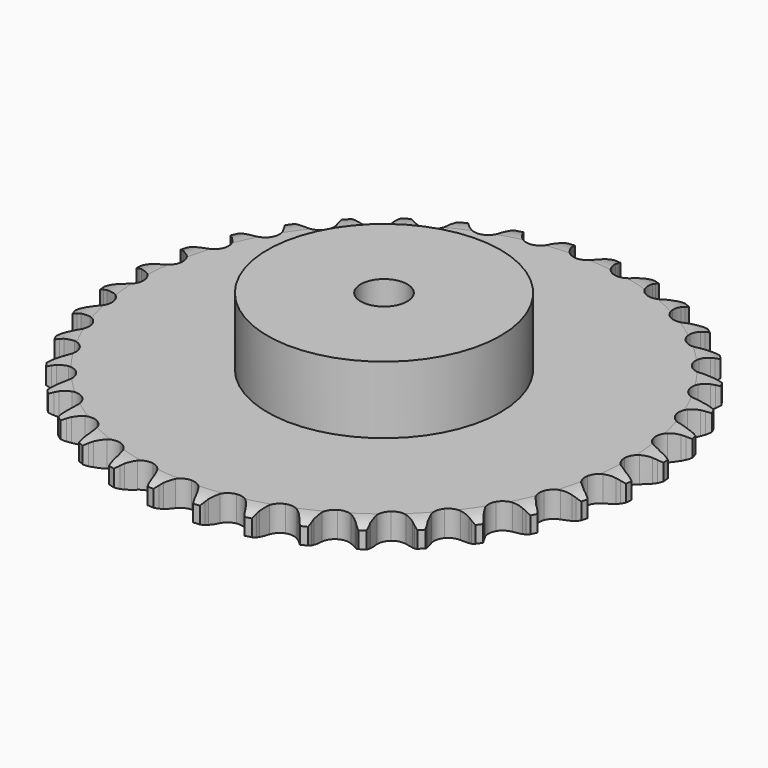
from build123d import *

# Parameters (mm, degrees)
PAD_DEPTH         = 11.1
SKETCH001_R       = 50
PAD001_DEPTH      = 40
SKETCH002_R       = 10
POCKET_DEPTH      = 0.001
POCKET_DEPTH_BACK = 40.001


with BuildPart() as part:
    # Sprocket → Pad (new body)
    with BuildSketch(Plane.XY):
        with BuildLine():
            ThreePointArc((-10.052334, 114.898699), (-8.631125, 113.189539), (-7.631331, 111.204226))
            Line((-7.631331, 111.204226), (-7.042556, 109.605897))
            ThreePointArc((-7.042556, 109.605897), (-6.111504, 107.547038), (-4.895578, 105.642496))
            ThreePointArc((-4.895578, 105.642496), (-2.739145, 103.833033), (0, 103.183844))
            ThreePointArc((0, 103.183844), (2.739145, 103.833033), (4.895578, 105.642496))
            ThreePointArc((4.895578, 105.642496), (6.111504, 107.547038), (7.042556, 109.605897))
            Line((7.042556, 109.605897), (7.631331, 111.204226))
            ThreePointArc((7.631331, 111.204226), (8.631125, 113.189539), (10.052334, 114.898699))
            ThreePointArc((10.052334, 114.898699), (11.155158, 112.968715), (11.795017, 110.83995))
            Line((11.795017, 110.83995), (12.0973, 109.163664))
            ThreePointArc((12.0973, 109.163664), (12.656691, 106.974409), (13.523423, 104.887657))
            ThreePointArc((13.523423, 104.887657), (15.332886, 102.731223), (17.917686, 101.616249))
            ThreePointArc((17.917686, 101.616249), (20.727948, 101.779928), (23.16583, 103.18744))
            Line((23.16583, 103.18744), (25.968428, 106.71781))
            ThreePointArc((25.968428, 106.71781), (26.377217, 107.465305), (26.825805, 108.189617))
            ThreePointArc((26.825805, 108.189617), (28.155156, 109.971157), (29.851566, 111.40756))
            ThreePointArc((29.851566, 111.40756), (30.602498, 109.315394), (30.86298, 107.107859))
            Line((30.86298, 107.107859), (30.869586, 105.404549))
            ThreePointArc((30.869586, 105.404549), (31.040318, 103.151416), (31.531523, 100.94586))
            ThreePointArc((31.531523, 100.94586), (32.939035, 98.507978), (35.290953, 96.961096))
            ThreePointArc((35.290953, 96.961096), (38.086943, 96.634292), (40.7322, 97.597087))
            Line((40.7322, 97.597087), (44.105263, 100.587156))
            ThreePointArc((44.105263, 100.587156), (44.637643, 101.25231), (45.20519, 101.887721))
            ThreePointArc((45.20519, 101.887721), (46.823707, 103.411356), (48.743773, 104.531359))
            ThreePointArc((48.743773, 104.531359), (49.119996, 102.340579), (48.993186, 100.12135))
            Line((48.993186, 100.12135), (48.703916, 98.442769))
            ThreePointArc((48.703916, 98.442769), (48.480802, 96.194219), (48.581552, 93.936874))
            ThreePointArc((48.581552, 93.936874), (49.544347, 91.291617), (51.591922, 89.35983))
            ThreePointArc((51.591922, 89.35983), (54.288685, 88.552472), (57.060943, 89.041296))
            Line((57.060943, 89.041296), (60.901981, 91.400213))
            ThreePointArc((60.901981, 91.400213), (61.541776, 91.962815), (62.211039, 92.490019))
            ThreePointArc((62.211039, 92.490019), (64.069543, 93.709454), (66.154926, 94.479025))
            ThreePointArc((66.154926, 94.479025), (66.145008, 92.256198), (65.63476, 90.092704))
            Line((65.63476, 90.092704), (65.058401, 88.489856))
            ThreePointArc((65.058401, 88.489856), (64.44822, 86.31421), (64.155457, 84.073664))
            ThreePointArc((64.155457, 84.073664), (64.64428, 81.301406), (66.325296, 79.04341))
            ThreePointArc((66.325296, 79.04341), (68.840894, 77.78003), (71.655918, 77.78003))
            Line((71.655918, 77.78003), (75.848224, 79.43612))
            ThreePointArc((75.848224, 79.43612), (76.575993, 79.879076), (77.326637, 80.282054))
            ThreePointArc((77.326637, 80.282054), (79.368659, 81.160237), (81.555994, 81.555994))
            ThreePointArc((81.555994, 81.555994), (81.160237, 79.368659), (80.282054, 77.326637))
            Line((80.282054, 77.326637), (79.43612, 75.848224))
            ThreePointArc((79.43612, 75.848224), (78.457412, 73.811587), (77.78003, 71.655918))
            ThreePointArc((77.78003, 71.655918), (77.78003, 68.840894), (79.04341, 66.325296))
            ThreePointArc((79.04341, 66.325296), (81.301406, 64.64428), (84.073664, 64.155457))
            Line((84.073664, 64.155457), (88.489856, 65.058401))
            ThreePointArc((88.489856, 65.058401), (89.283488, 65.368252), (90.092704, 65.63476))
            ThreePointArc((90.092704, 65.63476), (92.256198, 66.145008), (94.479025, 66.154926))
            ThreePointArc((94.479025, 66.154926), (93.709454, 64.069543), (92.490019, 62.211039))
            Line((92.490019, 62.211039), (91.400213, 60.901981))
            ThreePointArc((91.400213, 60.901981), (90.082715, 59.066237), (89.041296, 57.060943))
            ThreePointArc((89.041296, 57.060943), (88.552472, 54.288685), (89.35983, 51.591922))
            ThreePointArc((89.35983, 51.591922), (91.291617, 49.544347), (93.936874, 48.581552))
            Line((93.936874, 48.581552), (98.442769, 48.703916))
            ThreePointArc((98.442769, 48.703916), (99.278149, 48.871246), (100.12135, 48.993186))
            ThreePointArc((100.12135, 48.993186), (102.340579, 49.119996), (104.531359, 48.743773))
            ThreePointArc((104.531359, 48.743773), (103.411356, 46.823707), (101.887721, 45.20519))
            Line((101.887721, 45.20519), (100.587156, 44.105263))
            ThreePointArc((100.587156, 44.105263), (98.970901, 42.526188), (97.597087, 40.7322))
            ThreePointArc((97.597087, 40.7322), (96.634292, 38.086943), (96.961096, 35.290953))
            ThreePointArc((96.961096, 35.290953), (98.507978, 32.939035), (100.94586, 31.531523))
            Line((100.94586, 31.531523), (105.404549, 30.869586))
            ThreePointArc((105.404549, 30.869586), (106.256293, 30.889312), (107.107859, 30.86298))
            ThreePointArc((107.107859, 30.86298), (109.315394, 30.602498), (111.40756, 29.851566))
            ThreePointArc((111.40756, 29.851566), (109.971157, 28.155156), (108.189617, 26.825805))
            Line((108.189617, 26.825805), (106.71781, 25.968428))
            ThreePointArc((106.71781, 25.968428), (104.851906, 24.694004), (103.18744, 23.16583))
            ThreePointArc((103.18744, 23.16583), (101.779928, 20.727948), (101.616249, 17.917686))
            ThreePointArc((101.616249, 17.917686), (102.731223, 15.332886), (104.887657, 13.523423))
            Line((104.887657, 13.523423), (109.163664, 12.0973))
            ThreePointArc((109.163664, 12.0973), (110.005894, 11.968823), (110.83995, 11.795017))
            ThreePointArc((110.83995, 11.795017), (112.968715, 11.155158), (114.898699, 10.052334))
            ThreePointArc((114.898699, 10.052334), (113.189539, 8.631125), (111.204226, 7.631331))
            Line((111.204226, 7.631331), (109.605897, 7.042556))
            ThreePointArc((109.605897, 7.042556), (107.547038, 6.111504), (105.642496, 4.895578))
            ThreePointArc((105.642496, 4.895578), (103.833033, 2.739145), (103.183844, 0))
            ThreePointArc((103.183844, 0), (103.833033, -2.739145), (105.642496, -4.895578))
            Line((105.642496, -4.895578), (109.605897, -7.042556))
            ThreePointArc((109.605897, -7.042556), (110.413022, -7.315334), (111.204226, -7.631331))
            ThreePointArc((111.204226, -7.631331), (113.189539, -8.631125), (114.898699, -10.052334))
            ThreePointArc((114.898699, -10.052334), (112.968715, -11.155158), (110.83995, -11.795017))
            Line((110.83995, -11.795017), (109.163664, -12.0973))
            ThreePointArc((109.163664, -12.0973), (106.974409, -12.656691), (104.887657, -13.523423))
            ThreePointArc((104.887657, -13.523423), (102.731223, -15.332886), (101.616249, -17.917686))
            ThreePointArc((101.616249, -17.917686), (101.779928, -20.727948), (103.18744, -23.16583))
            Line((103.18744, -23.16583), (106.71781, -25.968428))
            ThreePointArc((106.71781, -25.968428), (107.465305, -26.377217), (108.189617, -26.825805))
            ThreePointArc((108.189617, -26.825805), (109.971157, -28.155156), (111.40756, -29.851566))
            ThreePointArc((111.40756, -29.851566), (109.315394, -30.602498), (107.107859, -30.86298))
            Line((107.107859, -30.86298), (105.404549, -30.869586))
            ThreePointArc((105.404549, -30.869586), (103.151416, -31.040318), (100.94586, -31.531523))
            ThreePointArc((100.94586, -31.531523), (98.507978, -32.939035), (96.961096, -35.290953))
            ThreePointArc((96.961096, -35.290953), (96.634292, -38.086943), (97.597087, -40.7322))
            Line((97.597087, -40.7322), (100.587156, -44.105263))
            ThreePointArc((100.587156, -44.105263), (101.25231, -44.637643), (101.887721, -45.20519))
            ThreePointArc((101.887721, -45.20519), (103.411356, -46.823707), (104.531359, -48.743773))
            ThreePointArc((104.531359, -48.743773), (102.340579, -49.119996), (100.12135, -48.993186))
            Line((100.12135, -48.993186), (98.442769, -48.703916))
            ThreePointArc((98.442769, -48.703916), (96.194219, -48.480802), (93.936874, -48.581552))
            ThreePointArc((93.936874, -48.581552), (91.291617, -49.544347), (89.35983, -51.591922))
            ThreePointArc((89.35983, -51.591922), (88.552472, -54.288685), (89.041296, -57.060943))
            Line((89.041296, -57.060943), (91.400213, -60.901981))
            ThreePointArc((91.400213, -60.901981), (91.962815, -61.541776), (92.490019, -62.211039))
            ThreePointArc((92.490019, -62.211039), (93.709454, -64.069543), (94.479025, -66.154926))
            ThreePointArc((94.479025, -66.154926), (92.256198, -66.145008), (90.092704, -65.63476))
            Line((90.092704, -65.63476), (88.489856, -65.058401))
            ThreePointArc((88.489856, -65.058401), (86.31421, -64.44822), (84.073664, -64.155457))
            ThreePointArc((84.073664, -64.155457), (81.301406, -64.64428), (79.04341, -66.325296))
            ThreePointArc((79.04341, -66.325296), (77.78003, -68.840894), (77.78003, -71.655918))
            Line((77.78003, -71.655918), (79.43612, -75.848224))
            ThreePointArc((79.43612, -75.848224), (79.879076, -76.575993), (80.282054, -77.326637))
            ThreePointArc((80.282054, -77.326637), (81.160237, -79.368659), (81.555994, -81.555994))
            ThreePointArc((81.555994, -81.555994), (79.368659, -81.160237), (77.326637, -80.282054))
            Line((77.326637, -80.282054), (75.848224, -79.43612))
            ThreePointArc((75.848224, -79.43612), (73.811587, -78.457412), (71.655918, -77.78003))
            ThreePointArc((71.655918, -77.78003), (68.840894, -77.78003), (66.325296, -79.04341))
            ThreePointArc((66.325296, -79.04341), (64.64428, -81.301406), (64.155457, -84.073664))
            Line((64.155457, -84.073664), (65.058401, -88.489856))
            ThreePointArc((65.058401, -88.489856), (65.368252, -89.283488), (65.63476, -90.092704))
            ThreePointArc((65.63476, -90.092704), (66.145008, -92.256198), (66.154926, -94.479025))
            ThreePointArc((66.154926, -94.479025), (64.069543, -93.709454), (62.211039, -92.490019))
            Line((62.211039, -92.490019), (60.901981, -91.400213))
            ThreePointArc((60.901981, -91.400213), (59.066237, -90.082715), (57.060943, -89.041296))
            ThreePointArc((57.060943, -89.041296), (54.288685, -88.552472), (51.591922, -89.35983))
            ThreePointArc((51.591922, -89.35983), (49.544347, -91.291617), (48.581552, -93.936874))
            Line((48.581552, -93.936874), (48.703916, -98.442769))
            ThreePointArc((48.703916, -98.442769), (48.871246, -99.278149), (48.993186, -100.12135))
            ThreePointArc((48.993186, -100.12135), (49.119996, -102.340579), (48.743773, -104.531359))
            ThreePointArc((48.743773, -104.531359), (46.823707, -103.411356), (45.20519, -101.887721))
            Line((45.20519, -101.887721), (44.105263, -100.587156))
            ThreePointArc((44.105263, -100.587156), (42.526188, -98.970901), (40.7322, -97.597087))
            ThreePointArc((40.7322, -97.597087), (38.086943, -96.634292), (35.290953, -96.961096))
            ThreePointArc((35.290953, -96.961096), (32.939035, -98.507978), (31.531523, -100.94586))
            Line((31.531523, -100.94586), (30.869586, -105.404549))
            ThreePointArc((30.869586, -105.404549), (30.889312, -106.256293), (30.86298, -107.107859))
            ThreePointArc((30.86298, -107.107859), (30.602498, -109.315394), (29.851566, -111.40756))
            ThreePointArc((29.851566, -111.40756), (28.155156, -109.971157), (26.825805, -108.189617))
            Line((26.825805, -108.189617), (25.968428, -106.71781))
            ThreePointArc((25.968428, -106.71781), (24.694004, -104.851906), (23.16583, -103.18744))
            ThreePointArc((23.16583, -103.18744), (20.727948, -101.779928), (17.917686, -101.616249))
            ThreePointArc((17.917686, -101.616249), (15.332886, -102.731223), (13.523423, -104.887657))
            Line((13.523423, -104.887657), (12.0973, -109.163664))
            ThreePointArc((12.0973, -109.163664), (11.968823, -110.005894), (11.795017, -110.83995))
            ThreePointArc((11.795017, -110.83995), (11.155158, -112.968715), (10.052334, -114.898699))
            ThreePointArc((10.052334, -114.898699), (8.631125, -113.189539), (7.631331, -111.204226))
            Line((7.631331, -111.204226), (7.042556, -109.605897))
            ThreePointArc((7.042556, -109.605897), (6.111504, -107.547038), (4.895578, -105.642496))
            ThreePointArc((4.895578, -105.642496), (2.739145, -103.833033), (0, -103.183844))
            ThreePointArc((0, -103.183844), (-2.739145, -103.833033), (-4.895578, -105.642496))
            Line((-4.895578, -105.642496), (-7.042556, -109.605897))
            ThreePointArc((-7.042556, -109.605897), (-7.315334, -110.413022), (-7.631331, -111.204226))
            ThreePointArc((-7.631331, -111.204226), (-8.631125, -113.189539), (-10.052334, -114.898699))
            ThreePointArc((-10.052334, -114.898699), (-11.155158, -112.968715), (-11.795017, -110.83995))
            Line((-11.795017, -110.83995), (-12.0973, -109.163664))
            ThreePointArc((-12.0973, -109.163664), (-12.656691, -106.974409), (-13.523423, -104.887657))
            ThreePointArc((-13.523423, -104.887657), (-15.332886, -102.731223), (-17.917686, -101.616249))
            ThreePointArc((-17.917686, -101.616249), (-20.727948, -101.779928), (-23.16583, -103.18744))
            Line((-23.16583, -103.18744), (-25.968428, -106.71781))
            ThreePointArc((-25.968428, -106.71781), (-26.377217, -107.465305), (-26.825805, -108.189617))
            ThreePointArc((-26.825805, -108.189617), (-28.155156, -109.971157), (-29.851566, -111.40756))
            ThreePointArc((-29.851566, -111.40756), (-30.602498, -109.315394), (-30.86298, -107.107859))
            Line((-30.86298, -107.107859), (-30.869586, -105.404549))
            ThreePointArc((-30.869586, -105.404549), (-31.040318, -103.151416), (-31.531523, -100.94586))
            ThreePointArc((-31.531523, -100.94586), (-32.939035, -98.507978), (-35.290953, -96.961096))
            ThreePointArc((-35.290953, -96.961096), (-38.086943, -96.634292), (-40.7322, -97.597087))
            Line((-40.7322, -97.597087), (-44.105263, -100.587156))
            ThreePointArc((-44.105263, -100.587156), (-44.637643, -101.25231), (-45.20519, -101.887721))
            ThreePointArc((-45.20519, -101.887721), (-46.823707, -103.411356), (-48.743773, -104.531359))
            ThreePointArc((-48.743773, -104.531359), (-49.119996, -102.340579), (-48.993186, -100.12135))
            Line((-48.993186, -100.12135), (-48.703916, -98.442769))
            ThreePointArc((-48.703916, -98.442769), (-48.480802, -96.194219), (-48.581552, -93.936874))
            ThreePointArc((-48.581552, -93.936874), (-49.544347, -91.291617), (-51.591922, -89.35983))
            ThreePointArc((-51.591922, -89.35983), (-54.288685, -88.552472), (-57.060943, -89.041296))
            Line((-57.060943, -89.041296), (-60.901981, -91.400213))
            ThreePointArc((-60.901981, -91.400213), (-61.541776, -91.962815), (-62.211039, -92.490019))
            ThreePointArc((-62.211039, -92.490019), (-64.069543, -93.709454), (-66.154926, -94.479025))
            ThreePointArc((-66.154926, -94.479025), (-66.145008, -92.256198), (-65.63476, -90.092704))
            Line((-65.63476, -90.092704), (-65.058401, -88.489856))
            ThreePointArc((-65.058401, -88.489856), (-64.44822, -86.31421), (-64.155457, -84.073664))
            ThreePointArc((-64.155457, -84.073664), (-64.64428, -81.301406), (-66.325296, -79.04341))
            ThreePointArc((-66.325296, -79.04341), (-68.840894, -77.78003), (-71.655918, -77.78003))
            Line((-71.655918, -77.78003), (-75.848224, -79.43612))
            ThreePointArc((-75.848224, -79.43612), (-76.575993, -79.879076), (-77.326637, -80.282054))
            ThreePointArc((-77.326637, -80.282054), (-79.368659, -81.160237), (-81.555994, -81.555994))
            ThreePointArc((-81.555994, -81.555994), (-81.160237, -79.368659), (-80.282054, -77.326637))
            Line((-80.282054, -77.326637), (-79.43612, -75.848224))
            ThreePointArc((-79.43612, -75.848224), (-78.457412, -73.811587), (-77.78003, -71.655918))
            ThreePointArc((-77.78003, -71.655918), (-77.78003, -68.840894), (-79.04341, -66.325296))
            ThreePointArc((-79.04341, -66.325296), (-81.301406, -64.64428), (-84.073664, -64.155457))
            Line((-84.073664, -64.155457), (-88.489856, -65.058401))
            ThreePointArc((-88.489856, -65.058401), (-89.283488, -65.368252), (-90.092704, -65.63476))
            ThreePointArc((-90.092704, -65.63476), (-92.256198, -66.145008), (-94.479025, -66.154926))
            ThreePointArc((-94.479025, -66.154926), (-93.709454, -64.069543), (-92.490019, -62.211039))
            Line((-92.490019, -62.211039), (-91.400213, -60.901981))
            ThreePointArc((-91.400213, -60.901981), (-90.082715, -59.066237), (-89.041296, -57.060943))
            ThreePointArc((-89.041296, -57.060943), (-88.552472, -54.288685), (-89.35983, -51.591922))
            ThreePointArc((-89.35983, -51.591922), (-91.291617, -49.544347), (-93.936874, -48.581552))
            Line((-93.936874, -48.581552), (-98.442769, -48.703916))
            ThreePointArc((-98.442769, -48.703916), (-99.278149, -48.871246), (-100.12135, -48.993186))
            ThreePointArc((-100.12135, -48.993186), (-102.340579, -49.119996), (-104.531359, -48.743773))
            ThreePointArc((-104.531359, -48.743773), (-103.411356, -46.823707), (-101.887721, -45.20519))
            Line((-101.887721, -45.20519), (-100.587156, -44.105263))
            ThreePointArc((-100.587156, -44.105263), (-98.970901, -42.526188), (-97.597087, -40.7322))
            ThreePointArc((-97.597087, -40.7322), (-96.634292, -38.086943), (-96.961096, -35.290953))
            ThreePointArc((-96.961096, -35.290953), (-98.507978, -32.939035), (-100.94586, -31.531523))
            Line((-100.94586, -31.531523), (-105.404549, -30.869586))
            ThreePointArc((-105.404549, -30.869586), (-106.256293, -30.889312), (-107.107859, -30.86298))
            ThreePointArc((-107.107859, -30.86298), (-109.315394, -30.602498), (-111.40756, -29.851566))
            ThreePointArc((-111.40756, -29.851566), (-109.971157, -28.155156), (-108.189617, -26.825805))
            Line((-108.189617, -26.825805), (-106.71781, -25.968428))
            ThreePointArc((-106.71781, -25.968428), (-104.851906, -24.694004), (-103.18744, -23.16583))
            ThreePointArc((-103.18744, -23.16583), (-101.779928, -20.727948), (-101.616249, -17.917686))
            ThreePointArc((-101.616249, -17.917686), (-102.731223, -15.332886), (-104.887657, -13.523423))
            Line((-104.887657, -13.523423), (-109.163664, -12.0973))
            ThreePointArc((-109.163664, -12.0973), (-110.005894, -11.968823), (-110.83995, -11.795017))
            ThreePointArc((-110.83995, -11.795017), (-112.968715, -11.155158), (-114.898699, -10.052334))
            ThreePointArc((-114.898699, -10.052334), (-113.189539, -8.631125), (-111.204226, -7.631331))
            Line((-111.204226, -7.631331), (-109.605897, -7.042556))
            ThreePointArc((-109.605897, -7.042556), (-107.547038, -6.111504), (-105.642496, -4.895578))
            ThreePointArc((-105.642496, -4.895578), (-103.833033, -2.739145), (-103.183844, 0))
            ThreePointArc((-103.183844, 0), (-103.833033, 2.739145), (-105.642496, 4.895578))
            Line((-105.642496, 4.895578), (-109.605897, 7.042556))
            ThreePointArc((-109.605897, 7.042556), (-110.413022, 7.315334), (-111.204226, 7.631331))
            ThreePointArc((-111.204226, 7.631331), (-113.189539, 8.631125), (-114.898699, 10.052334))
            ThreePointArc((-114.898699, 10.052334), (-112.968715, 11.155158), (-110.83995, 11.795017))
            Line((-110.83995, 11.795017), (-109.163664, 12.0973))
            ThreePointArc((-109.163664, 12.0973), (-106.974409, 12.656691), (-104.887657, 13.523423))
            ThreePointArc((-104.887657, 13.523423), (-102.731223, 15.332886), (-101.616249, 17.917686))
            ThreePointArc((-101.616249, 17.917686), (-101.779928, 20.727948), (-103.18744, 23.16583))
            Line((-103.18744, 23.16583), (-106.71781, 25.968428))
            ThreePointArc((-106.71781, 25.968428), (-107.465305, 26.377217), (-108.189617, 26.825805))
            ThreePointArc((-108.189617, 26.825805), (-109.971157, 28.155156), (-111.40756, 29.851566))
            ThreePointArc((-111.40756, 29.851566), (-109.315394, 30.602498), (-107.107859, 30.86298))
            Line((-107.107859, 30.86298), (-105.404549, 30.869586))
            ThreePointArc((-105.404549, 30.869586), (-103.151416, 31.040318), (-100.94586, 31.531523))
            ThreePointArc((-100.94586, 31.531523), (-98.507978, 32.939035), (-96.961096, 35.290953))
            ThreePointArc((-96.961096, 35.290953), (-96.634292, 38.086943), (-97.597087, 40.7322))
            Line((-97.597087, 40.7322), (-100.587156, 44.105263))
            ThreePointArc((-100.587156, 44.105263), (-101.25231, 44.637643), (-101.887721, 45.20519))
            ThreePointArc((-101.887721, 45.20519), (-103.411356, 46.823707), (-104.531359, 48.743773))
            ThreePointArc((-104.531359, 48.743773), (-102.340579, 49.119996), (-100.12135, 48.993186))
            Line((-100.12135, 48.993186), (-98.442769, 48.703916))
            ThreePointArc((-98.442769, 48.703916), (-96.194219, 48.480802), (-93.936874, 48.581552))
            ThreePointArc((-93.936874, 48.581552), (-91.291617, 49.544347), (-89.35983, 51.591922))
            ThreePointArc((-89.35983, 51.591922), (-88.552472, 54.288685), (-89.041296, 57.060943))
            Line((-89.041296, 57.060943), (-91.400213, 60.901981))
            ThreePointArc((-91.400213, 60.901981), (-91.962815, 61.541776), (-92.490019, 62.211039))
            ThreePointArc((-92.490019, 62.211039), (-93.709454, 64.069543), (-94.479025, 66.154926))
            ThreePointArc((-94.479025, 66.154926), (-92.256198, 66.145008), (-90.092704, 65.63476))
            Line((-90.092704, 65.63476), (-88.489856, 65.058401))
            ThreePointArc((-88.489856, 65.058401), (-86.31421, 64.44822), (-84.073664, 64.155457))
            ThreePointArc((-84.073664, 64.155457), (-81.301406, 64.64428), (-79.04341, 66.325296))
            ThreePointArc((-79.04341, 66.325296), (-77.78003, 68.840894), (-77.78003, 71.655918))
            Line((-77.78003, 71.655918), (-79.43612, 75.848224))
            ThreePointArc((-79.43612, 75.848224), (-79.879076, 76.575993), (-80.282054, 77.326637))
            ThreePointArc((-80.282054, 77.326637), (-81.160237, 79.368659), (-81.555994, 81.555994))
            ThreePointArc((-81.555994, 81.555994), (-79.368659, 81.160237), (-77.326637, 80.282054))
            Line((-77.326637, 80.282054), (-75.848224, 79.43612))
            ThreePointArc((-75.848224, 79.43612), (-73.811587, 78.457412), (-71.655918, 77.78003))
            ThreePointArc((-71.655918, 77.78003), (-68.840894, 77.78003), (-66.325296, 79.04341))
            ThreePointArc((-66.325296, 79.04341), (-64.64428, 81.301406), (-64.155457, 84.073664))
            Line((-64.155457, 84.073664), (-65.058401, 88.489856))
            ThreePointArc((-65.058401, 88.489856), (-65.368252, 89.283488), (-65.63476, 90.092704))
            ThreePointArc((-65.63476, 90.092704), (-66.145008, 92.256198), (-66.154926, 94.479025))
            ThreePointArc((-66.154926, 94.479025), (-64.069543, 93.709454), (-62.211039, 92.490019))
            Line((-62.211039, 92.490019), (-60.901981, 91.400213))
            ThreePointArc((-60.901981, 91.400213), (-59.066237, 90.082715), (-57.060943, 89.041296))
            ThreePointArc((-57.060943, 89.041296), (-54.288685, 88.552472), (-51.591922, 89.35983))
            ThreePointArc((-51.591922, 89.35983), (-49.544347, 91.291617), (-48.581552, 93.936874))
            Line((-48.581552, 93.936874), (-48.703916, 98.442769))
            ThreePointArc((-48.703916, 98.442769), (-48.871246, 99.278149), (-48.993186, 100.12135))
            ThreePointArc((-48.993186, 100.12135), (-49.119996, 102.340579), (-48.743773, 104.531359))
            ThreePointArc((-48.743773, 104.531359), (-46.823707, 103.411356), (-45.20519, 101.887721))
            Line((-45.20519, 101.887721), (-44.105263, 100.587156))
            ThreePointArc((-44.105263, 100.587156), (-42.526188, 98.970901), (-40.7322, 97.597087))
            ThreePointArc((-40.7322, 97.597087), (-38.086943, 96.634292), (-35.290953, 96.961096))
            ThreePointArc((-35.290953, 96.961096), (-32.939035, 98.507978), (-31.531523, 100.94586))
            Line((-31.531523, 100.94586), (-30.869586, 105.404549))
            ThreePointArc((-30.869586, 105.404549), (-30.889312, 106.256293), (-30.86298, 107.107859))
            ThreePointArc((-30.86298, 107.107859), (-30.602498, 109.315394), (-29.851566, 111.40756))
            ThreePointArc((-29.851566, 111.40756), (-28.155156, 109.971157), (-26.825805, 108.189617))
            Line((-26.825805, 108.189617), (-25.968428, 106.71781))
            ThreePointArc((-25.968428, 106.71781), (-24.694004, 104.851906), (-23.16583, 103.18744))
            ThreePointArc((-23.16583, 103.18744), (-20.727948, 101.779928), (-17.917686, 101.616249))
            ThreePointArc((-17.917686, 101.616249), (-15.332886, 102.731223), (-13.523423, 104.887657))
            Line((-13.523423, 104.887657), (-12.0973, 109.163664))
            ThreePointArc((-12.0973, 109.163664), (-11.968823, 110.005894), (-11.795017, 110.83995))
            ThreePointArc((-11.795017, 110.83995), (-11.155158, 112.968715), (-10.052334, 114.898699))
        make_face()
    extrude(amount=PAD_DEPTH)

    # Sketch → Groove (revolve, cut)
    with BuildSketch(Plane.XZ):
        with BuildLine():
            Line((104.914719, 0), (113.4, 0))
            Line((121.885281, 0), (113.4, 0))
            Line((121.885281, 11.1), (121.885281, 0))
            Line((113.4, 11.1), (121.885281, 11.1))
            Line((104.914719, 11.1), (113.4, 11.1))
            ThreePointArc((113.4, 9.1), (109.273618, 10.593242), (104.914719, 11.1))
            Line((113.4, 2), (113.4, 9.1))
            ThreePointArc((104.914719, 0), (109.273618, 0.506758), (113.4, 2))
        make_face()
    revolve(axis=Axis((0, 0, 0), (0, 0, 1)), mode=Mode.SUBTRACT)

    # Sketch001 → Pad001 (join)
    with BuildSketch(Plane.XY):
        Circle(SKETCH001_R)
    extrude(amount=PAD001_DEPTH)

    # Sketch002 → Pocket (cut, two sides)
    with BuildSketch(Plane.XY) as pocket_sk:
        Circle(SKETCH002_R)
    extrude(amount=-POCKET_DEPTH, mode=Mode.SUBTRACT)
    extrude(pocket_sk.sketch, amount=POCKET_DEPTH_BACK, mode=Mode.SUBTRACT)


solid = part.part
